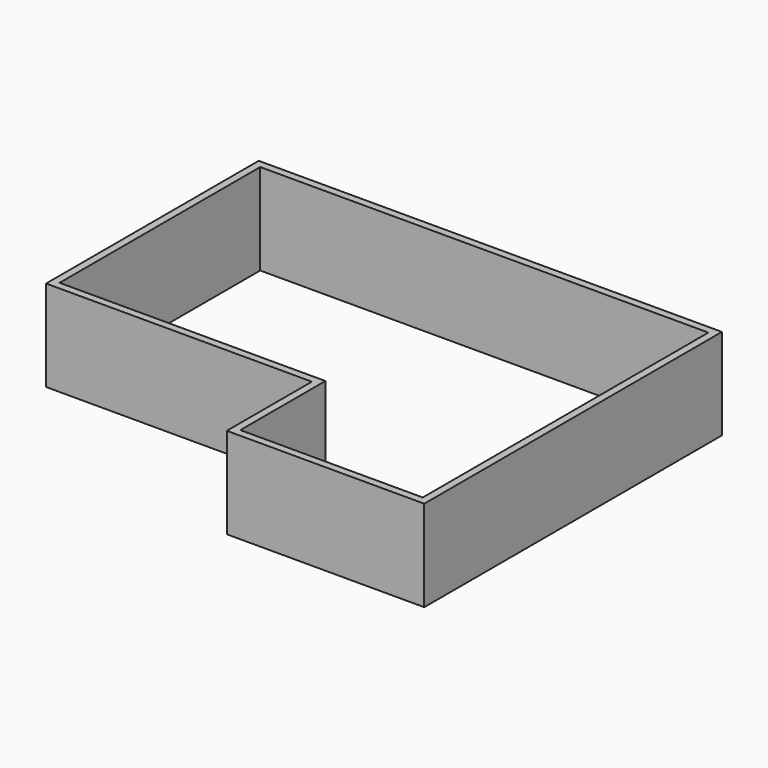
from build123d import *

# Parameters (mm, degrees)
F1_DEPTH = 2400


with BuildPart() as f1:
    # F0 (on Top) → F1 (new body)
    with BuildSketch(Plane.XY):
        Polygon((-116144.966024, 60627.915192), (-128344.966024, 60627.915192), (-128344.966024, 53627.915192), (-121344.966024, 53627.915192), (-121344.966024, 50827.915192), (-121146.966024, 50827.915192), (-116144.966024, 50827.915192), align=None)
        Polygon((-121146.966024, 53825.915192), (-128146.966024, 53825.915192), (-128146.966024, 60429.915192), (-116342.966024, 60429.915192), (-116342.966024, 51025.915192), (-121146.966024, 51025.915192), align=None, mode=Mode.SUBTRACT)
    extrude(amount=F1_DEPTH)


solid = f1.part
